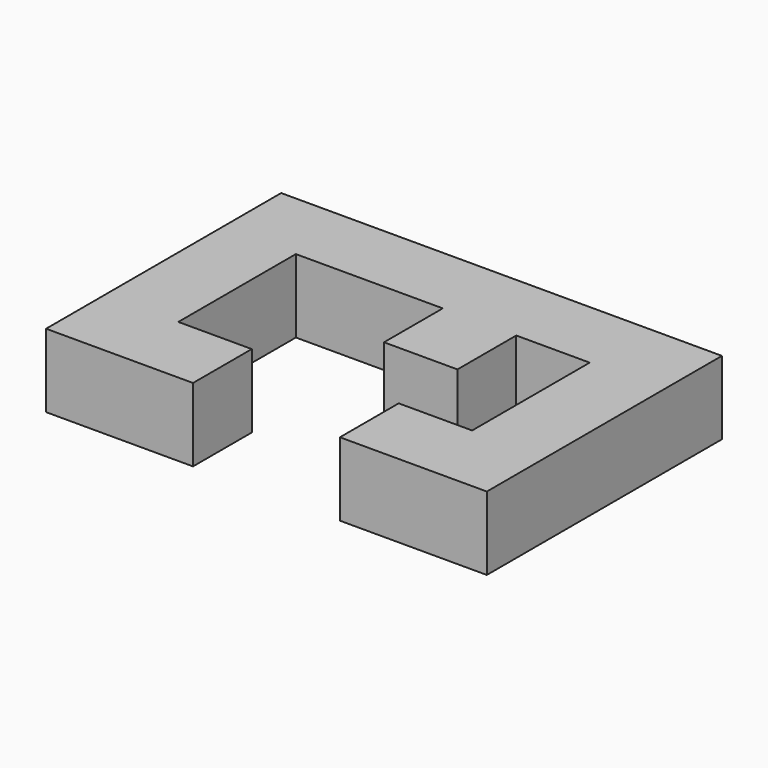
from build123d import *

# Parameters (mm, degrees)
F0_W     = 10
F0_H     = 10
F1_DEPTH = 10


with BuildPart() as f1:
    # F0 (on Top) → F1 (new body)
    with BuildSketch(Plane.XY):
        Polygon((30, 20), (-30, 20), (-30, -20), (-10, -20), (-10, -10), (-20, -10), (-20, 10), (0, 10), (10, 10), (20, 10), (20, -10), (10, -10), (10, -20), (30, -20), align=None)
        with Locations((5, 5)):
            Rectangle(F0_W, F0_H)
    extrude(amount=F1_DEPTH)


solid = f1.part
